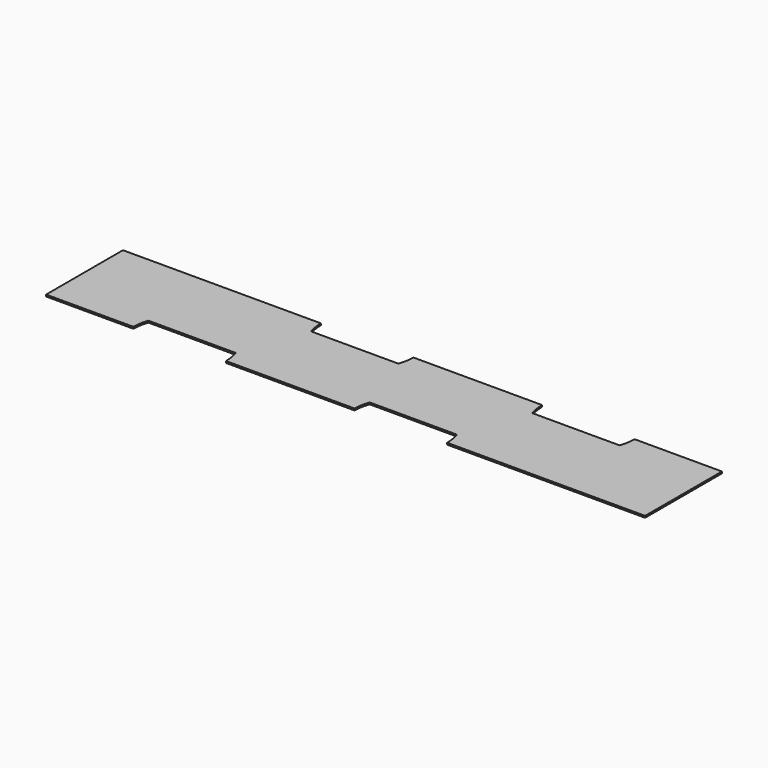
from build123d import *

# Parameters (mm, degrees)
F1_DEPTH = 0.3


with BuildPart() as f1:
    # F0 (on Top) → F1 (new body)
    with BuildSketch(Plane.XY):
        with BuildLine():
            ThreePointArc((68.445332, -5.526652), (68.785509, -6.832291), (68.9, -8.176652))
            Line((68.9, -8.176652), (102.9, -8.176652))
            Line((102.9, -8.176652), (102.9, 8.323348))
            Line((102.9, 8.323348), (87.9, 8.323348))
            ThreePointArc((87.9, 8.323348), (87.785509, 6.978988), (87.445332, 5.673348))
            ThreePointArc((87.445332, 5.673348), (79.95, 0.373348), (72.454668, 5.673348))
            ThreePointArc((72.454668, 5.673348), (72.114491, 6.978988), (72, 8.323348))
            Line((72, 8.323348), (49.9, 8.323348))
            ThreePointArc((49.9, 8.323348), (49.785509, 6.978988), (49.445332, 5.673348))
            ThreePointArc((49.445332, 5.673348), (41.95, 0.373348), (34.454668, 5.673348))
            ThreePointArc((34.454668, 5.673348), (34.114491, 6.978988), (34, 8.323348))
            Line((34, 8.323348), (0, 8.323348))
            Line((0, 8.323348), (0, -8.176652))
            Line((0, -8.176652), (15, -8.176652))
            ThreePointArc((15, -8.176652), (15.114491, -6.832291), (15.454668, -5.526652))
            ThreePointArc((15.454668, -5.526652), (22.95, -0.226652), (30.445332, -5.526652))
            ThreePointArc((30.445332, -5.526652), (30.785509, -6.832291), (30.9, -8.176652))
            Line((30.9, -8.176652), (53, -8.176652))
            ThreePointArc((53, -8.176652), (53.114491, -6.832291), (53.454668, -5.526652))
            ThreePointArc((53.454668, -5.526652), (60.95, -0.226652), (68.445332, -5.526652))
        make_face()
        with BuildLine():
            Line((15.454668, -5.526652), (30.445332, -5.526652))
            ThreePointArc((30.445332, -5.526652), (22.95, -0.226652), (15.454668, -5.526652))
        make_face()
        with BuildLine():
            ThreePointArc((34.454668, 5.673348), (41.95, 0.373348), (49.445332, 5.673348))
            Line((49.445332, 5.673348), (34.454668, 5.673348))
        make_face()
        with BuildLine():
            Line((53.454668, -5.526652), (68.445332, -5.526652))
            ThreePointArc((68.445332, -5.526652), (60.95, -0.226652), (53.454668, -5.526652))
        make_face()
        with BuildLine():
            ThreePointArc((72.454668, 5.673348), (79.95, 0.373348), (87.445332, 5.673348))
            Line((87.445332, 5.673348), (72.454668, 5.673348))
        make_face()
    extrude(amount=F1_DEPTH)


solid = f1.part
